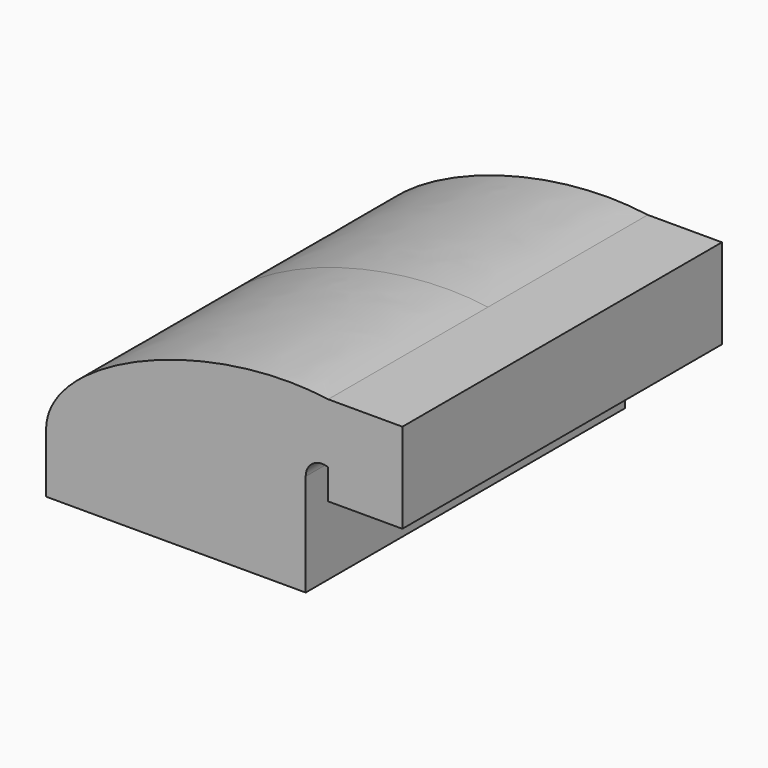
from build123d import *

# Parameters (mm, degrees)
F1_DEPTH = 63.5


with BuildPart() as f1:
    # F0 (on Front) → F1 (new body, symmetric)
    with BuildSketch(Plane.XZ):
        with BuildLine():
            add(Edge.make_bspline(
                [(-41.275, 9.525), (-40.863544, 31.082287), (9.773727, 52.372959), (48.429718, 46.904484)],
                knots=[0, 0, 0, 0, 97.18108, 97.18108, 97.18108, 97.18108], degree=3))
            Line((-41.275, 9.525), (25.213744, 9.525))
            Line((25.213744, 9.525), (25.213744, 22.997882))
            ThreePointArc((25.213744, 22.997882), (32.145966, 38.720956), (48.429718, 44.20823))
            Line((48.429718, 44.20823), (48.429718, 46.904484))
        make_face()
        Polygon((25.213744, 9.525), (-41.275, 9.525), (-41.275, -9.525), (41.275, -9.525), (41.275, 9.525), align=None)
        with BuildLine():
            Line((25.213744, 22.997882), (25.213744, 9.525))
            Line((25.213744, 9.525), (41.275, 9.525))
            Line((41.275, 9.525), (41.275, 22.997882))
            ThreePointArc((41.275, 22.997882), (43.564075, 27.325707), (48.429718, 27.869256))
            Line((48.429718, 27.869256), (48.429718, 44.20823))
            ThreePointArc((48.429718, 44.20823), (32.145966, 38.720956), (25.213744, 22.997882))
        make_face()
        Polygon((72.02662, 46.904484), (48.429718, 46.904484), (48.429718, 44.20823), (48.429718, 27.869256), (48.429718, 18.329484), (72.02662, 18.329484), align=None)
    extrude(amount=F1_DEPTH, both=True)


solid = f1.part
